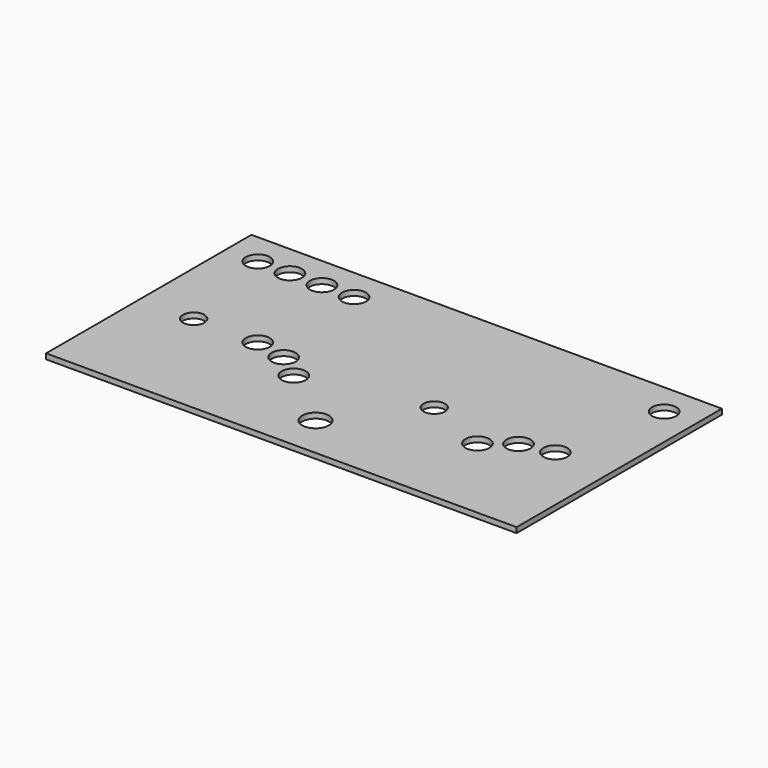
from build123d import *

# Parameters (mm, degrees)
SKETCH_W   = 558.8
SKETCH_H   = 304.8
SKETCH_R   = 14.2875
SKETCH_R_2 = 15.875
SKETCH_R_3 = 12.7
PAD_DEPTH  = 6.35


with BuildPart() as part:
    # Sketch → Pad (new body)
    with BuildSketch(Plane.XY):
        Rectangle(SKETCH_W, SKETCH_H)
        with Locations((-241.3, 114.3)):
            Circle(SKETCH_R, mode=Mode.SUBTRACT)
        with Locations((-203.2, 114.3)):
            Circle(SKETCH_R, mode=Mode.SUBTRACT)
        with Locations((-127, 114.3)):
            Circle(SKETCH_R, mode=Mode.SUBTRACT)
        with Locations((-165.1, 114.3)):
            Circle(SKETCH_R, mode=Mode.SUBTRACT)
        with Locations((241.3, 114.3)):
            Circle(SKETCH_R, mode=Mode.SUBTRACT)
        with Locations((0, -101.6)):
            Circle(SKETCH_R_2, mode=Mode.SUBTRACT)
        with Locations((-215.9, -12.7)):
            Circle(SKETCH_R_3, mode=Mode.SUBTRACT)
        with Locations((69.85, -12.7)):
            Circle(SKETCH_R_3, mode=Mode.SUBTRACT)
        with Locations((-139.7, -12.7)):
            Circle(SKETCH_R, mode=Mode.SUBTRACT)
        with Locations((-102.485024, -20.864286)):
            Circle(SKETCH_R, mode=Mode.SUBTRACT)
        with Locations((-72.105452, -43.85758)):
            Circle(SKETCH_R, mode=Mode.SUBTRACT)
        with Locations((146.05, -43.85758)):
            Circle(SKETCH_R, mode=Mode.SUBTRACT)
        with Locations((176.429572, -20.864286)):
            Circle(SKETCH_R, mode=Mode.SUBTRACT)
        with Locations((213.644548, -12.7)):
            Circle(SKETCH_R, mode=Mode.SUBTRACT)
    extrude(amount=PAD_DEPTH)


solid = part.part
